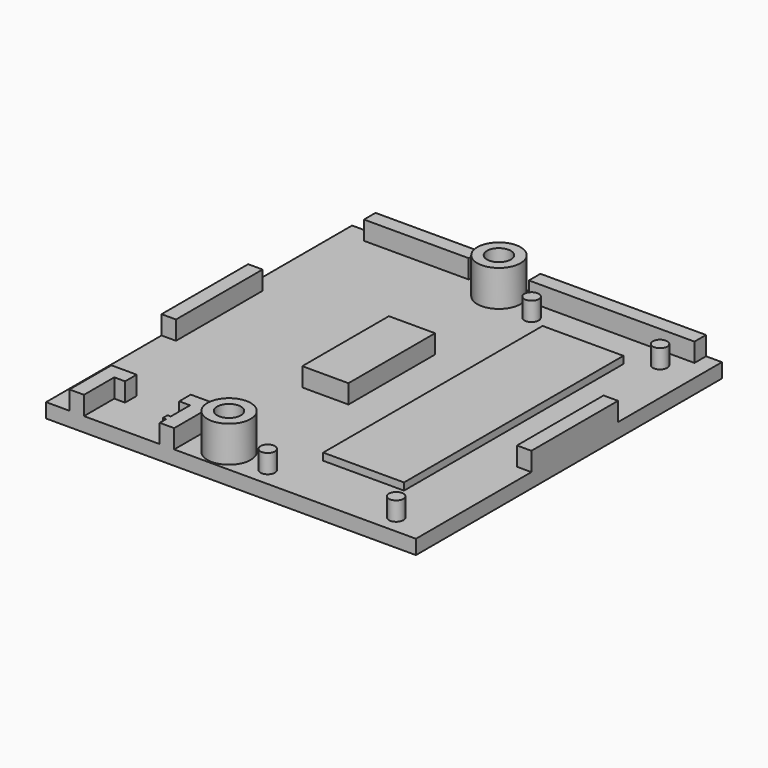
from build123d import *

# Parameters (mm, degrees)
SKETCH015_R      = 1.2
EXTRUDE011_DEPTH = 10
SKETCH006_W      = 11.2
SKETCH006_H      = 38
EXTRUDE001_DEPTH = 1
SKETCH007_R      = 1
SKETCH007_W      = 6.4
SKETCH007_H      = 15
SKETCH007_W_2    = 2
SKETCH007_W_3    = 14.5
SKETCH007_H_2    = 2
SKETCH007_W_4    = 22.95
EXTRUDE005_DEPTH = 2.6
SKETCH005_W      = 51.25
SKETCH005_H      = 53
EXTRUDE_DEPTH    = 2
SKETCH013_R      = 1.65
EXTRUDE009_DEPTH = 5
SKETCH012_R      = 3
EXTRUDE008_DEPTH = 5


with BuildPart() as basecut:
    # Sketch015 → Extrude011 (new body)
    with BuildSketch(Plane.XY):
        with Locations((22.75, 50)):
            Circle(SKETCH015_R)
        with Locations((22.75, 3.25)):
            Circle(SKETCH015_R)
    extrude(amount=EXTRUDE011_DEPTH)


with BuildPart() as base002:
    # Sketch006 → Extrude001 (new body)
    with BuildSketch(Plane.XY.offset(2)):
        with Locations((37.6, 27)):
            Rectangle(SKETCH006_W, SKETCH006_H)
    extrude(amount=EXTRUDE001_DEPTH)


with BuildPart() as base003:
    # Sketch007 → Extrude005 (new body)
    with BuildSketch(Plane.XY.offset(2)):
        with Locations((28.675, 48.25)):
            Circle(SKETCH007_R)
        with Locations((46.475, 48.25)):
            Circle(SKETCH007_R)
        with Locations((28.675, 2.55)):
            Circle(SKETCH007_R)
        with Locations((46.475, 2.55)):
            Circle(SKETCH007_R)
        Polygon((3.25, 0), (5.25, 0), (5.25, 5.25), (6.75, 5.25), (6.75, 7.25), (3.25, 7.25), align=None)
        Polygon((17.75, 0), (15.75, 0), (15.75, 1.1), (15.3, 1.1), (15.3, 1.9), (15.75, 1.9), (15.75, 5.25), (14.25, 5.25), (14.25, 7.25), (17.75, 7.25), align=None)
        with Locations((22.7, 27.5)):
            Rectangle(SKETCH007_W, SKETCH007_H)
        with Locations((1, 27.5)):
            Rectangle(SKETCH007_W_2, SKETCH007_H)
        with Locations((10.5, 52)):
            Rectangle(SKETCH007_W_3, SKETCH007_H_2)
        with Locations((50.25, 27.5)):
            Rectangle(SKETCH007_W_2, SKETCH007_H)
        with Locations((37.575, 52)):
            Rectangle(SKETCH007_W_4, SKETCH007_H_2)
    extrude(amount=EXTRUDE005_DEPTH)


with BuildPart() as base004:
    # Sketch005 → Extrude (new body)
    with BuildSketch(Plane.XY):
        with Locations((25.625, 26.5)):
            Rectangle(SKETCH005_W, SKETCH005_H)
    extrude(amount=EXTRUDE_DEPTH)

    # Fusion002: union base002, base003
    add(base002.part)
    add(base003.part)


with BuildPart() as extrude009:
    # Sketch013 → Extrude009 (new body)
    with BuildSketch(Plane.XY.offset(10.25)):
        with Locations((22.75, 50)):
            Circle(SKETCH013_R)
        with Locations((22.75, 3.25)):
            Circle(SKETCH013_R)
    extrude(amount=EXTRUDE009_DEPTH)


with BuildPart() as extrude009_1:
    # Extrude009 placement: moved
    add(extrude009.part.moved(Location((0, 0, -8.25))))


with BuildPart() as bottom001:
    # Sketch012 → Extrude008 (new body)
    with BuildSketch(Plane.XY.offset(10.25)):
        with Locations((22.75, 50)):
            Circle(SKETCH012_R)
        with Locations((22.75, 3.25)):
            Circle(SKETCH012_R)
    extrude(amount=EXTRUDE008_DEPTH)


with BuildPart() as bottom001_1:
    # Extrude008 placement: moved
    add(bottom001.part.moved(Location((0, 0, -8.25))))

    # Cut002: cut Extrude009
    add(extrude009_1.part, mode=Mode.SUBTRACT)

    # Fusion003: union base004
    add(base004.part)

    # Cut004: cut baseCut
    add(basecut.part, mode=Mode.SUBTRACT)


solid = bottom001_1.part
